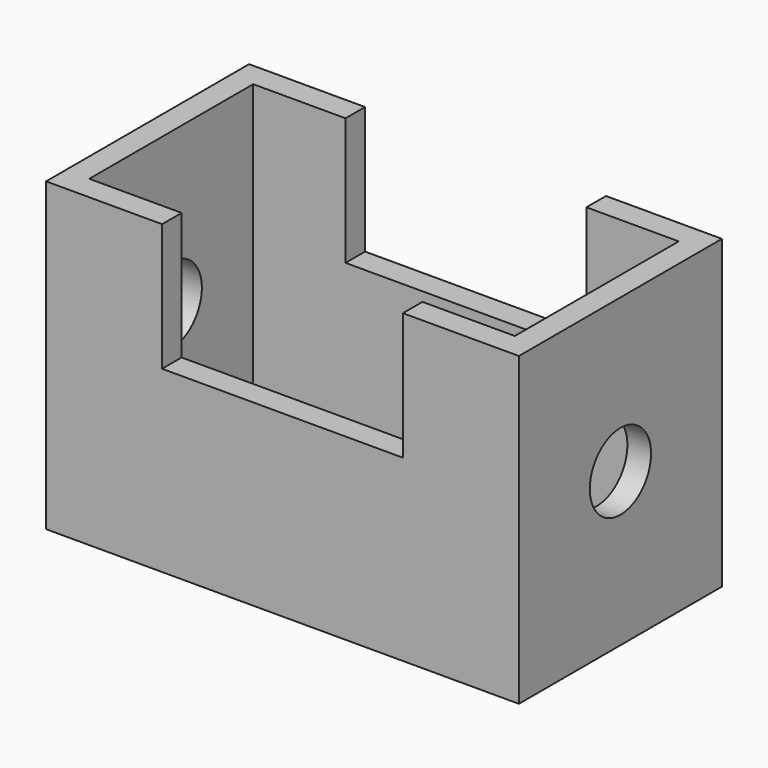
from build123d import *

# Parameters (mm, degrees)
F0_W     = 156.882346
F0_H     = 84.193528
F0_W_2   = 141.194134
F0_H_2   = 67.982354
F1_DEPTH = 101.6
F2_W     = 79.92284
F2_H     = 42.2275
F3_DEPTH = 190.754
F5_D     = 25.4


with BuildPart() as f1:
    # F0 (on Top) → F1 (new body)
    with BuildSketch(Plane.XY):
        Rectangle(F0_W, F0_H)
        Rectangle(F0_W_2, F0_H_2, mode=Mode.SUBTRACT)
    extrude(amount=F1_DEPTH)

    # F2 (on face) → F3 (cut, symmetric)
    with BuildSketch(Plane.XZ.offset(42.096764)):
        with Locations((0, 80.48625)):
            Rectangle(F2_W, F2_H)
    extrude(amount=F3_DEPTH, both=True, mode=Mode.SUBTRACT)

    # F5 (through all)
    with Locations(Plane.YZ.offset(78.441173)):
        with Locations((0, 50.8)):
            Hole(F5_D / 2)


solid = f1.part
